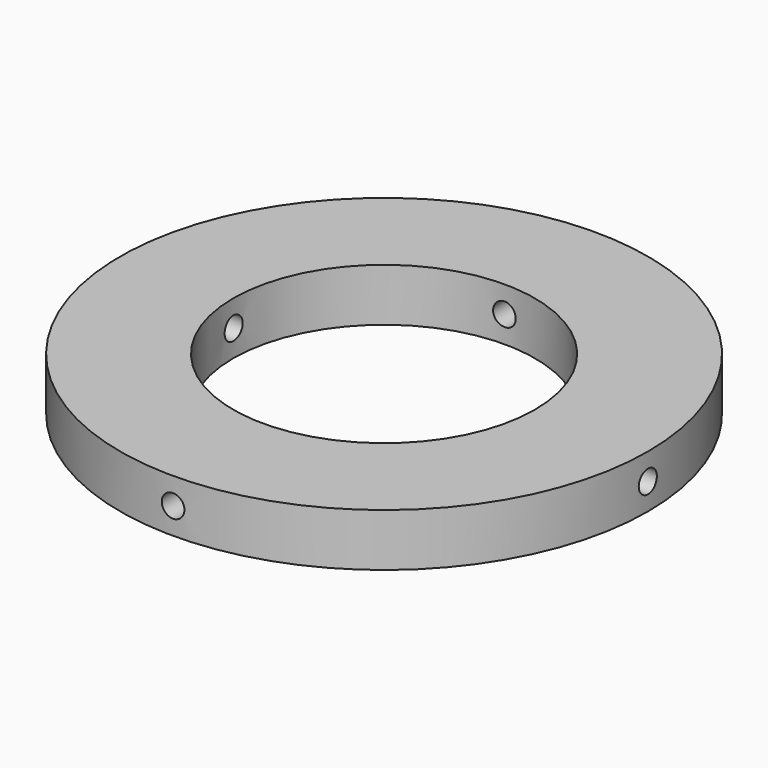
from build123d import *

# Parameters (mm, degrees)
F0_R          = 35
F0_R_2        = 20
F1_DEPTH      = 3.5
F2_R          = 1.5
F4_DEPTH      = 35.001
F4_DEPTH_BACK = 35.001
F3_R          = 1.5
F5_DEPTH      = 35.0010001
F5_DEPTH_BACK = 35.0010001


with BuildPart() as f1:
    # F0 (on Top) → F1 (new body, symmetric)
    with BuildSketch(Plane.XY):
        Circle(F0_R)
        Circle(F0_R_2, mode=Mode.SUBTRACT)
    extrude(amount=F1_DEPTH, both=True)

    # F2 (on Right) → F4 (cut, two sides)
    with BuildSketch(Plane.YZ) as f4_sk:
        Circle(F2_R)
    extrude(amount=-F4_DEPTH, mode=Mode.SUBTRACT)
    extrude(f4_sk.sketch, amount=F4_DEPTH_BACK, mode=Mode.SUBTRACT)

    # F3 (on Front) → F5 (cut, two sides)
    with BuildSketch(Plane.XZ) as f5_sk:
        Circle(F3_R)
    extrude(amount=-F5_DEPTH, mode=Mode.SUBTRACT)
    extrude(f5_sk.sketch, amount=F5_DEPTH_BACK, mode=Mode.SUBTRACT)


solid = f1.part
